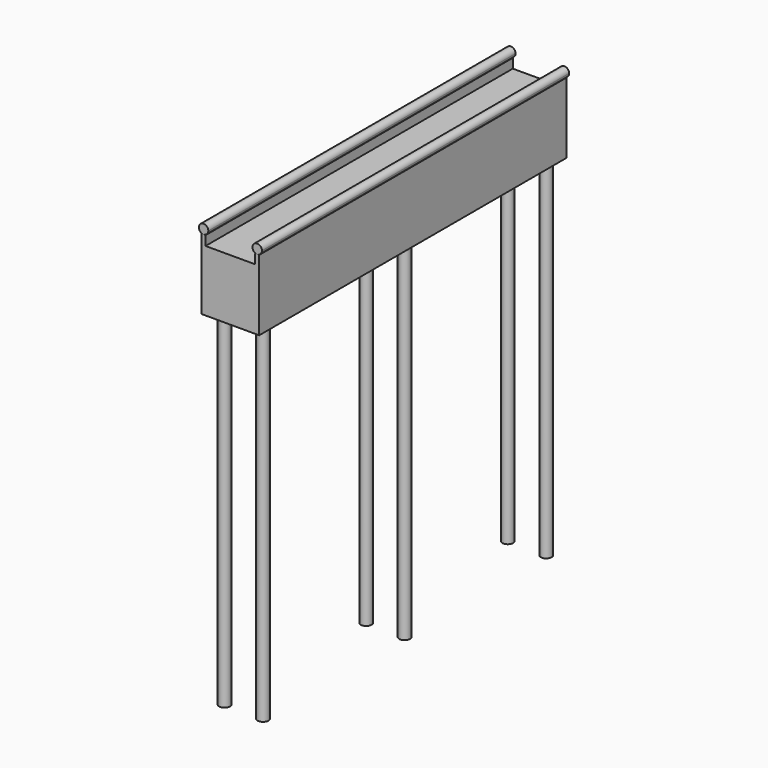
from build123d import *

# Parameters (mm, degrees)
F1_DEPTH = 1000
F2_R     = 14.058959
F3_DEPTH = 900


with BuildPart() as f1:
    # F0 (on Front) → F1 (new body)
    with BuildSketch(Plane.XZ):
        Polygon((-74.585779, 102.518581), (-74.585779, 77.823524), (-64.203553, 77.823524), (-64.203553, 102.518581), (-69.394666, 102.518581), align=None)
        Polygon((-64.203553, 77.823524), (-74.585779, 77.823524), (-74.585779, -81.551469), (75.414221, -81.551469), (75.414221, 77.823524), (65.031995, 77.823524), align=None)
        with BuildLine():
            ThreePointArc((-57.056534, 114.856713), (-78.119042, 123.581089), (-69.394666, 102.518581))
            ThreePointArc((-69.394666, 102.518581), (-60.670289, 106.132336), (-57.056534, 114.856713))
        make_face()
        with BuildLine():
            ThreePointArc((82.56124, 114.856713), (61.498732, 123.581089), (70.223108, 102.518581))
            ThreePointArc((70.223108, 102.518581), (78.947485, 106.132336), (82.56124, 114.856713))
        make_face()
        Polygon((65.031995, 102.518581), (65.031995, 77.823524), (75.414221, 77.823524), (75.414221, 102.518581), (70.223108, 102.518581), align=None)
    extrude(amount=F1_DEPTH)

    # F2 (on face) → F3 (join)
    with BuildSketch(Plane(origin=(0, 0, -81.551469), x_dir=(1, 0, 0), z_dir=(0, 0, -1))):
        with Locations((56.183349, 41.739814)):
            Circle(F2_R)
        with Locations((56.183349, 502.554814)):
            Circle(F2_R)
        with Locations((56.183349, 963.369814)):
            Circle(F2_R)
        with Locations((-43.883421, 41.739814)):
            Circle(F2_R)
        with Locations((-43.883421, 502.554814)):
            Circle(F2_R)
        with Locations((-43.883421, 963.369814)):
            Circle(F2_R)
    extrude(amount=F3_DEPTH)


solid = f1.part
